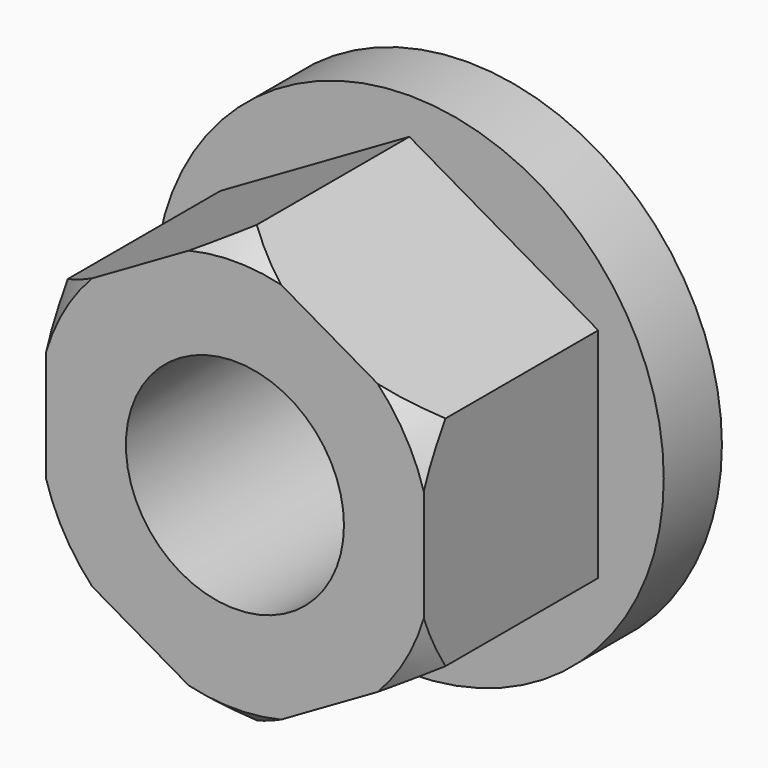
from build123d import *

# Parameters (mm, degrees)
F1_DEPTH = 76.2
F2_R     = 88.9
F3_DEPTH = 25.4
F4_R     = 38.1
F5_DEPTH = 101.601


with BuildPart() as f1:
    # F0 (on Front) → F1 (new body)
    with BuildSketch(Plane.XZ):
        Polygon((65.991136, 38.1), (0, 76.2), (-65.991136, 38.1), (-65.991136, -38.1), (0, -76.2), (65.991136, -38.1), align=None)
    extrude(amount=F1_DEPTH)

    # F4 (on face) → F5 (cut, through all)
    with BuildSketch(Plane.XZ.offset(76.2)):
        Circle(F4_R)
    extrude(amount=-F5_DEPTH, mode=Mode.SUBTRACT)

    # F6 (on Right) → F7 (revolve, cut)
    with BuildSketch(Plane.YZ):
        Polygon((-79.554103, 79.966761), (-79.4148, 66.314511), (-61.861902, 79.966761), align=None)
    revolve(axis=Axis((0, -76.2, 0), (0, -1, 0)), mode=Mode.SUBTRACT)


with BuildPart() as f3:
    # F2 (on face) → F3 (new body)
    with BuildSketch(Plane(origin=(0, 0, 0), x_dir=(-1, 0, 0), z_dir=(0, 1, 0))):
        Circle(F2_R)
        Polygon((-65.991136, 38.1), (0, 76.2), (65.991136, 38.1), (65.991136, -38.1), (0, -76.2), (-65.991136, -38.1), align=None, mode=Mode.SUBTRACT)
    extrude(amount=F3_DEPTH)


solid = Compound([f1.part, f3.part])
